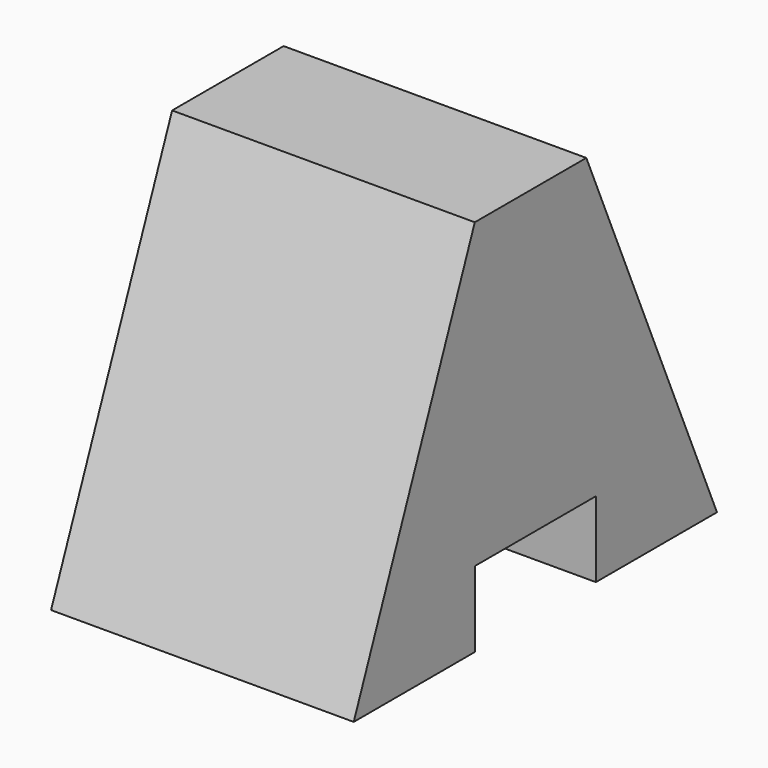
from build123d import *

# Parameters (mm, degrees)
F0_W     = 38.1
F0_H     = 31.75
F1_DEPTH = 25.4
F3_DEPTH = 25.4
F5_DEPTH = 25.401
F6_W     = 12.7
F6_H     = 6.35
F7_DEPTH = 25.401


with BuildPart() as f1:
    # F0 (on Right) → F1 (new body)
    with BuildSketch(Plane.YZ):
        with Locations((19.05, 15.875)):
            Rectangle(F0_W, F0_H)
    extrude(amount=F1_DEPTH)

    # F2 (on face) → F3 (cut)
    with BuildSketch(Plane.YZ.offset(25.4)):
        Polygon((38.1, 31.75), (24.396158, 31.75), (38.1, 0), align=None)
    extrude(amount=-F3_DEPTH, mode=Mode.SUBTRACT)

    # F4 (on face) → F5 (cut, through all)
    with BuildSketch(Plane.YZ.offset(25.4)):
        Polygon((0, 31.75), (0, 0), (12.7, 31.75), align=None)
    extrude(amount=-F5_DEPTH, mode=Mode.SUBTRACT)

    # F6 (on face) → F7 (cut, through all)
    with BuildSketch(Plane.YZ.offset(25.4)):
        with Locations((19.05, 3.175)):
            Rectangle(F6_W, F6_H)
    extrude(amount=-F7_DEPTH, mode=Mode.SUBTRACT)


solid = f1.part
